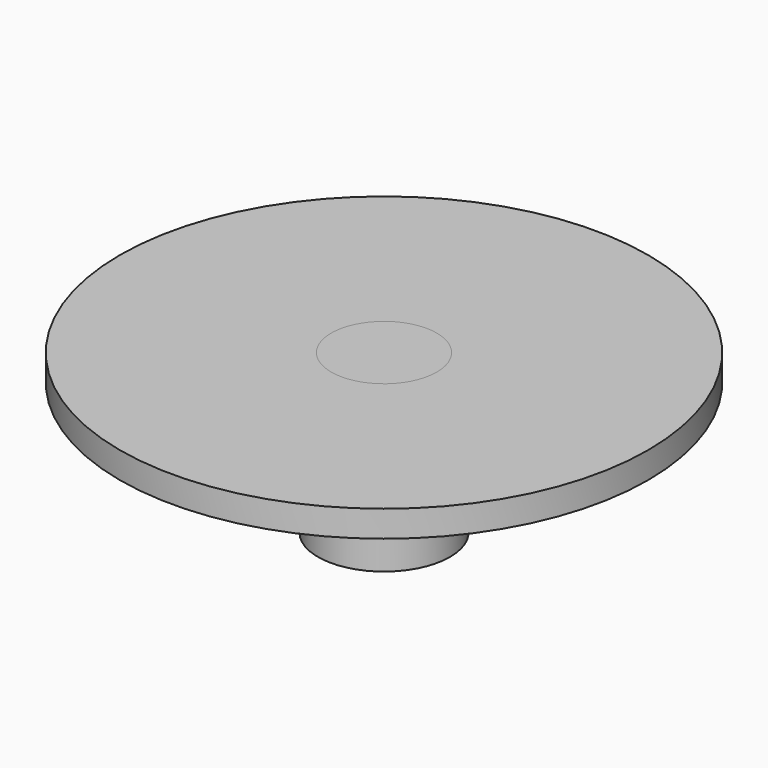
from build123d import *

# Parameters (mm, degrees)
F0_R     = 2.5
F1_DEPTH = 5
F2_R     = 10
F3_DEPTH = 1
F4_R     = 2
F5_DEPTH = 25
F6_R     = 2
F7_DEPTH = 6


with BuildPart() as f1:
    # F0 (on Top) → F1 (new body)
    with BuildSketch(Plane.XY):
        Circle(F0_R)
    extrude(amount=F1_DEPTH)

    # F2 (on face) → F3 (join)
    with BuildSketch(Plane.XY.offset(5)):
        Circle(F2_R)
    extrude(amount=F3_DEPTH)

    # F4 (on face) → F5 (cut)
    with BuildSketch(Plane(origin=(0, 0, 0), x_dir=(1, 0, 0), z_dir=(0, 0, -1))):
        Circle(F4_R)
    extrude(amount=-F5_DEPTH, mode=Mode.SUBTRACT)


with BuildPart() as f7:
    # F6 (on face) → F7 (new body)
    with BuildSketch(Plane.XY.offset(6)):
        Circle(F6_R)
    extrude(amount=-F7_DEPTH)


solid = Compound([f1.part, f7.part])
